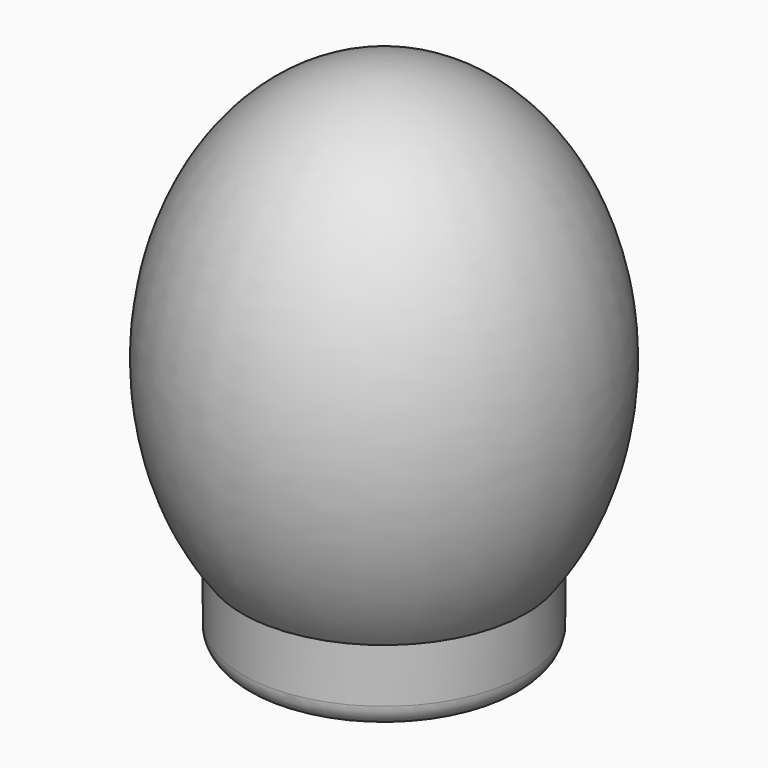
from build123d import *

# Parameters (mm, degrees)
F2_R     = 15.875
F3_DEPTH = 28.575
F4_R     = 12.5
F5_DEPTH = 18
F6_R     = 2.54


with BuildPart() as f1:
    # F0 (on Front) → F1 (revolve)
    with BuildSketch(Plane.XZ):
        with BuildLine():
            Line((0, 57.15), (0, 0))
            add(Edge.make_bspline(
                [(0, 0), (22.225, 0), (22.225, 28.575), (22.225, 57.15), (0, 57.15)],
                knots=[0, 0, 0, 1.5707963268, 1.5707963268, 3.1415926536, 3.1415926536, 3.1415926536], degree=2, weights=[1, 0.7071067812, 1, 0.7071067812, 1]))
        make_face()
    revolve(axis=Axis((0, 0, 28.575), (0, 0, 1)))

    # F2 (on Top) → F3 (join)
    with BuildSketch(Plane.XY):
        Circle(F2_R)
    extrude(amount=F3_DEPTH)

    # F4 (on Top) → F5 (cut)
    with BuildSketch(Plane.XY):
        Circle(F4_R)
    extrude(amount=F5_DEPTH, mode=Mode.SUBTRACT)

    # F6
    f6_edges = [f1.edges().sort_by_distance(p)[0] for p in [
        (-15.875, 0, 0),
    ]]
    fillet(f6_edges, radius=F6_R)


solid = f1.part
